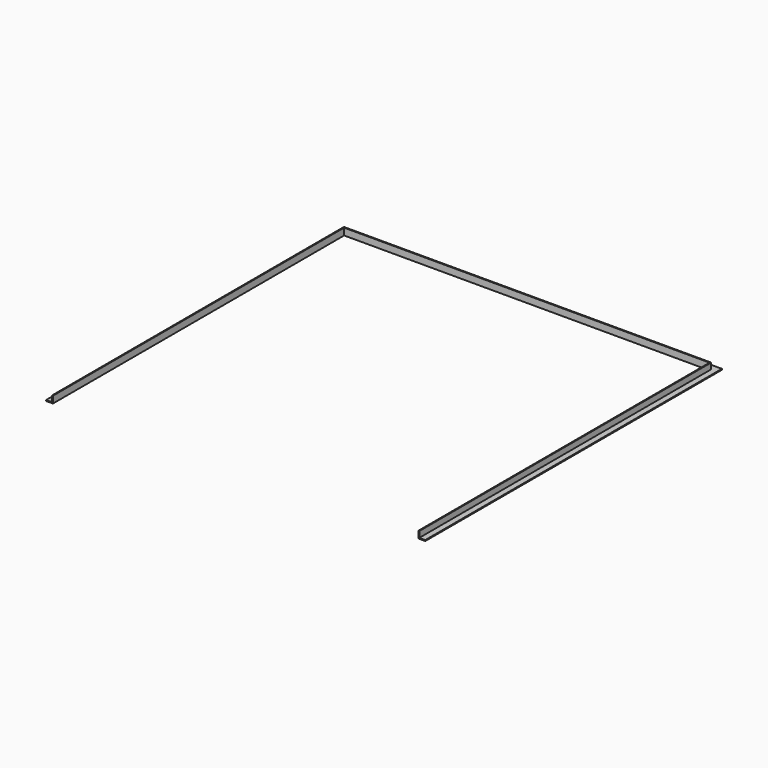
from build123d import *


with BuildPart() as f2:
    # F2: sweep along a path in F0
    with BuildLine(Plane.XY) as f2_path:
        Line((-504.5, -502.5), (-504.5, 502.5))
        Line((-504.5, 502.5), (504.5, 502.5))
        Line((504.5, 502.5), (504.5, -502.5))
    # F1 (on Right) → F2 (sweep)
    with BuildSketch(Plane.YZ):
        Polygon((502.5, 19), (502.5, 0), (521.5, 0), (521.5, 2.5), (505, 2.5), (505, 19), align=None)
    sweep(path=f2_path.line, transition=Transition.RIGHT)


solid = f2.part
